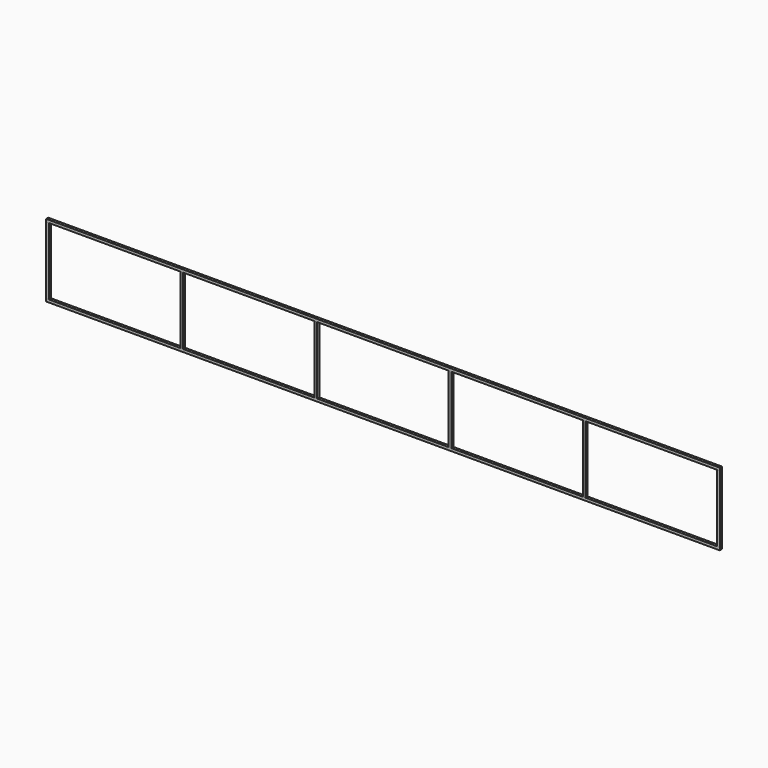
from build123d import *

# Parameters (mm, degrees)
F0_W     = 40
F0_H     = 40
F0_W_2   = 30
F0_H_2   = 30
F1_DEPTH = 1000
F2_W     = 40
F2_H     = 40
F2_W_2   = 30
F2_H_2   = 30
F3_DEPTH = 10000


with BuildPart() as f1:
    # F0 (on Top) → F1 (new body)
    with BuildSketch(Plane.XY):
        with Locations((-4980, -20)):
            Rectangle(F0_W, F0_H)
        with Locations((-4980, -20)):
            Rectangle(F0_W_2, F0_H_2, mode=Mode.SUBTRACT)
        with Locations((-2988, -20)):
            Rectangle(F0_W, F0_H)
        with Locations((-2988, -20)):
            Rectangle(F0_W_2, F0_H_2, mode=Mode.SUBTRACT)
        with Locations((-996, -20)):
            Rectangle(F0_W, F0_H)
        with Locations((-996, -20)):
            Rectangle(F0_W_2, F0_H_2, mode=Mode.SUBTRACT)
        with Locations((996, -20)):
            Rectangle(F0_W, F0_H)
        with Locations((996, -20)):
            Rectangle(F0_W_2, F0_H_2, mode=Mode.SUBTRACT)
        with Locations((2988, -20)):
            Rectangle(F0_W, F0_H)
        with Locations((2988, -20)):
            Rectangle(F0_W_2, F0_H_2, mode=Mode.SUBTRACT)
        with Locations((4980, -20)):
            Rectangle(F0_W, F0_H)
        with Locations((4980, -20)):
            Rectangle(F0_W_2, F0_H_2, mode=Mode.SUBTRACT)
    extrude(amount=F1_DEPTH)


with BuildPart() as f3:
    # F2 (on face) → F3 (new body, through all)
    with BuildSketch(Plane(origin=(-5000, 0, 0), x_dir=(0, -1, 0), z_dir=(-1, 0, 0))):
        with Locations((20, 1020)):
            Rectangle(F2_W, F2_H)
        with Locations((20, 1020)):
            Rectangle(F2_W_2, F2_H_2, mode=Mode.SUBTRACT)
        with Locations((20, -20)):
            Rectangle(F2_W, F2_H)
        with Locations((20, -20)):
            Rectangle(F2_W_2, F2_H_2, mode=Mode.SUBTRACT)
    extrude(amount=-F3_DEPTH)


solid = Compound([f1.part, f3.part])
